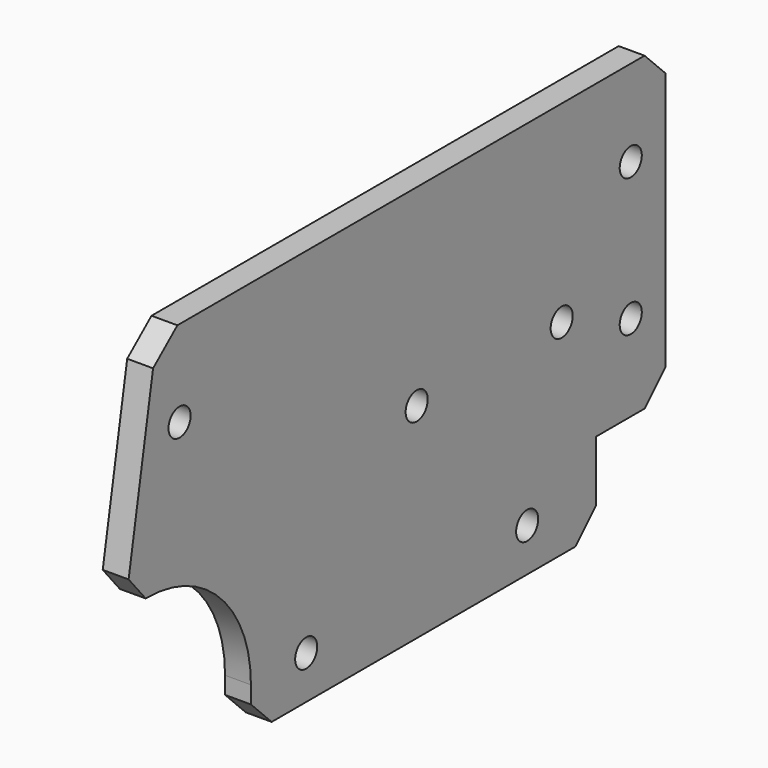
from build123d import *

# Parameters (mm, degrees)
SKETCH040_R     = 1.6
PAD023_DEPTH    = 3
SKETCH041_W     = 10
SKETCH041_H     = 10
POCKET016_DEPTH = 3.001
CHAMFER005_SIZE = 3


with BuildPart() as part:
    # Sketch040 → Pad023 (new body)
    with BuildSketch(Plane.YZ):
        Polygon((41, -16.2), (41, 29.8), (-32.652229, 29.8), (-39, -6.2), (-39, -16.2), align=None)
        with Locations((36, 19.8)):
            Circle(SKETCH040_R, mode=Mode.SUBTRACT)
        with Locations((-29.338365, 19.8)):
            Circle(SKETCH040_R, mode=Mode.SUBTRACT)
        with Locations((21, -11.2)):
            Circle(SKETCH040_R, mode=Mode.SUBTRACT)
        with Locations((-11, -11.2)):
            Circle(SKETCH040_R, mode=Mode.SUBTRACT)
        with Locations((5, 7.5)):
            Circle(SKETCH040_R, mode=Mode.SUBTRACT)
        with Locations((26, 7.5)):
            Circle(SKETCH040_R, mode=Mode.SUBTRACT)
        with Locations((36, 3.8)):
            Circle(SKETCH040_R, mode=Mode.SUBTRACT)
    extrude(amount=PAD023_DEPTH)

    # Sketch041 → Pocket016 (cut, through all)
    with BuildSketch(Plane.YZ):
        with Locations((36, -11.2)):
            Rectangle(SKETCH041_W, SKETCH041_H)
        with BuildLine():
            Line((-39, -16.2), (-39, 3.8))
            Line((-39, 3.8), (-34, 3.8))
            ThreePointArc((-19, -11.2), (-23.393398, -0.593398), (-34, 3.8))
            Line((-19, -16.2), (-19, -11.2))
            Line((-39, -16.2), (-19, -16.2))
        make_face()
    extrude(amount=POCKET016_DEPTH, mode=Mode.SUBTRACT)

    # Chamfer005
    chamfer005_edges = [part.edges().sort_by_distance(p)[0] for p in [
        (1.5, -32.652229, 29.8),
        (1.5, -37.23673, 3.8),
        (1.5, -19, -16.2),
        (1.5, 41, 29.8),
        (1.5, 41, -6.2),
        (1.5, 31, -16.2),
    ]]
    chamfer(chamfer005_edges, length=CHAMFER005_SIZE)


with BuildPart() as part_1:
    # Body023 placement: moved
    add(part.part.moved(Location((40, 0, 0))))


solid = part_1.part
